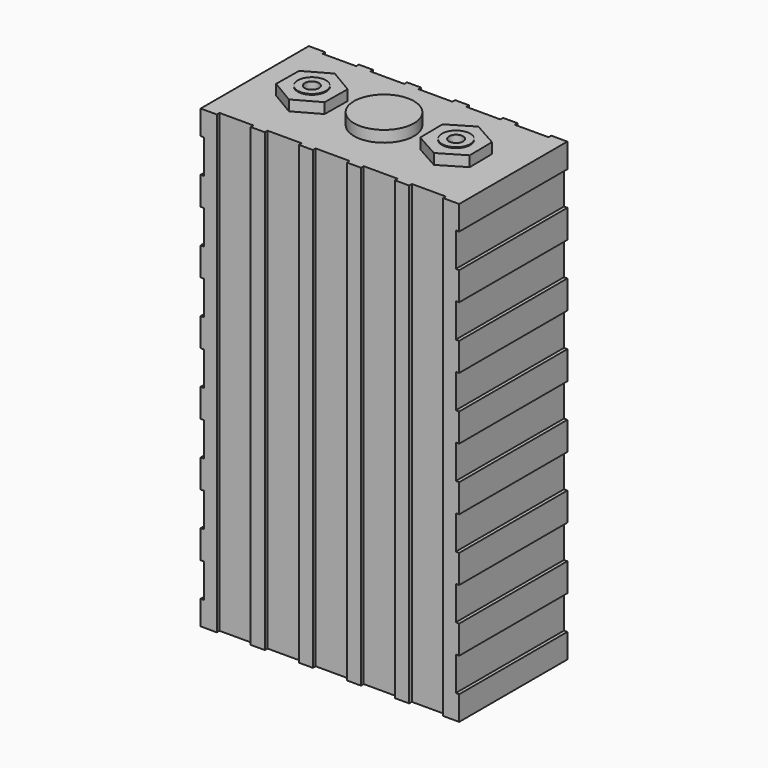
from build123d import *

# Parameters (mm, degrees)
F0_W      = 116.078
F0_H      = 60.706
F1_DEPTH  = 25.4
F1_FACE_W = 116.078
F1_FACE_H = 60.706
F2_DEPTH  = 179.324
F3_W      = 15.24
F3_H      = 1.524
F4_DEPTH  = 204.725
F5_W      = 1.524
F5_H      = 15.24
F6_DEPTH  = 60.707
F7_R      = 13.462
F8_DEPTH  = 5.08
F10_DEPTH = 4.699
F11_R     = 6.35
F12_DEPTH = 0.381
F13_R     = 3.175
F14_DEPTH = 12.7


with BuildPart() as f1:
    # F0 (on Top) → F1 (new body)
    with BuildSketch(Plane.XY):
        Rectangle(F0_W, F0_H)
    extrude(amount=F1_DEPTH)

    # F1_face (on face) → F2 (join)
    with BuildSketch(Plane.XY.offset(25.4)):
        Rectangle(F1_FACE_W, F1_FACE_H)
    extrude(amount=F2_DEPTH)

    # F3 (on face) → F4 (cut, through all)
    with BuildSketch(Plane.XY.offset(204.724)):
        with Locations((-43.18, 29.591)):
            Rectangle(F3_W, F3_H)
        with Locations((-21.59, 29.591)):
            Rectangle(F3_W, F3_H)
        with Locations((0, 29.591)):
            Rectangle(F3_W, F3_H)
        with Locations((21.59, 29.591)):
            Rectangle(F3_W, F3_H)
        with Locations((43.18, 29.591)):
            Rectangle(F3_W, F3_H)
        with Locations((43.18, -29.591)):
            Rectangle(F3_W, F3_H)
        with Locations((21.59, -29.591)):
            Rectangle(F3_W, F3_H)
        with Locations((0, -29.591)):
            Rectangle(F3_W, F3_H)
        with Locations((-21.59, -29.591)):
            Rectangle(F3_W, F3_H)
        with Locations((-43.18, -29.591)):
            Rectangle(F3_W, F3_H)
    extrude(amount=-F4_DEPTH, mode=Mode.SUBTRACT)

    # F5 (on face) → F6 (cut, through all)
    with BuildSketch(Plane.XZ.offset(30.353)):
        with Locations((-57.277, 102.362)):
            Rectangle(F5_W, F5_H)
        with Locations((-57.277, 74.422)):
            Rectangle(F5_W, F5_H)
        with Locations((-57.277, 46.482)):
            Rectangle(F5_W, F5_H)
        with Locations((-57.277, 18.542)):
            Rectangle(F5_W, F5_H)
        with Locations((-57.277, 130.302)):
            Rectangle(F5_W, F5_H)
        with Locations((-57.277, 158.242)):
            Rectangle(F5_W, F5_H)
        with Locations((-57.277, 186.182)):
            Rectangle(F5_W, F5_H)
        with Locations((57.277, 102.362)):
            Rectangle(F5_W, F5_H)
        with Locations((57.277, 74.422)):
            Rectangle(F5_W, F5_H)
        with Locations((57.277, 130.302)):
            Rectangle(F5_W, F5_H)
        with Locations((57.277, 46.482)):
            Rectangle(F5_W, F5_H)
        with Locations((57.277, 186.182)):
            Rectangle(F5_W, F5_H)
        with Locations((57.277, 18.542)):
            Rectangle(F5_W, F5_H)
        with Locations((57.277, 158.242)):
            Rectangle(F5_W, F5_H)
    extrude(amount=-F6_DEPTH, mode=Mode.SUBTRACT)

    # F7 (on face) → F8 (join)
    with BuildSketch(Plane.XY.offset(204.724)):
        Circle(F7_R)
    extrude(amount=F8_DEPTH)


with BuildPart() as f10:
    # F9 (on face) → F10 (new body)
    with BuildSketch(Plane.XY.offset(204.724)):
        Polygon((32.542071, -12.699029), (43.461217, -6.213487), (43.304146, 6.485542), (32.227929, 12.699029), (21.308783, 6.213487), (21.465854, -6.485542), align=None)
    extrude(amount=F10_DEPTH)


with BuildPart() as f12:
    # F11 (on face) → F12 (new body)
    with BuildSketch(Plane.XY.offset(209.423)):
        with Locations((32.385, 0)):
            Circle(F11_R)
    extrude(amount=F12_DEPTH)


with BuildPart() as f14_tool:
    # F13 (on face) → F14 (new body)
    with BuildSketch(Plane.XY.offset(209.804)):
        with Locations((32.385, 0)):
            Circle(F13_R)
    extrude(amount=-F14_DEPTH)


with BuildPart() as f1_1:
    add(f1.part)

    # F14: cut by f14_tool
    add(f14_tool.part, mode=Mode.SUBTRACT)


with BuildPart() as f10_1:
    add(f10.part)

    # F14: cut by f14_tool
    add(f14_tool.part, mode=Mode.SUBTRACT)


with BuildPart() as f12_1:
    add(f12.part)

    # F14: cut by f14_tool
    add(f14_tool.part, mode=Mode.SUBTRACT)


with BuildPart() as f15_1:
    # F15: instance of F12
    add(f12_1.part.mirror(Plane.YZ))


with BuildPart() as f15_2:
    # F15: instance of F10
    add(f10_1.part.mirror(Plane.YZ))


solid = Compound([f1_1.part, f10_1.part, f12_1.part, f15_1.part, f15_2.part])
